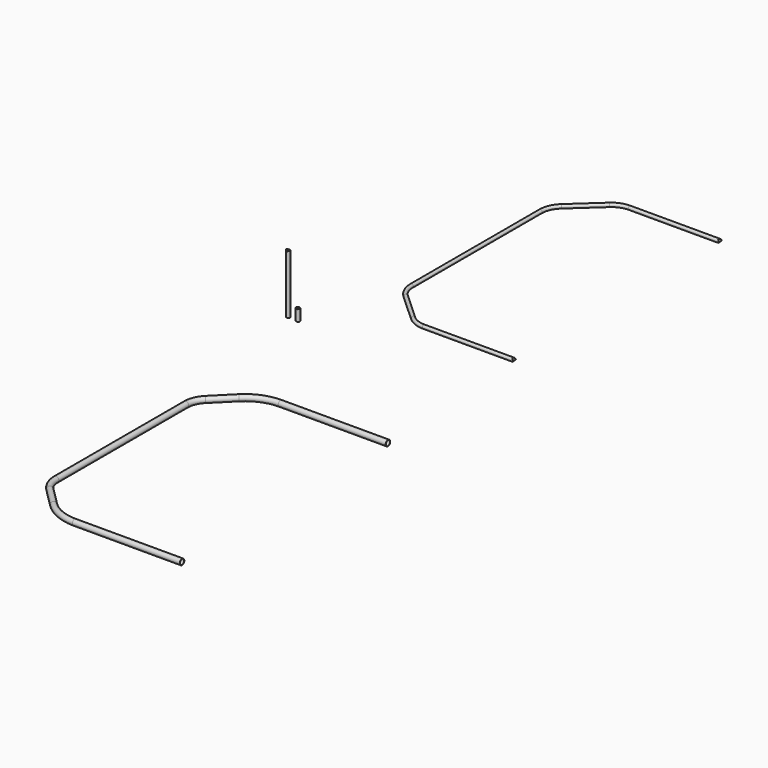
from build123d import *

# Parameters (mm, degrees)
F3_R      = 25.4
F3_R_2    = 23.749
F6_R      = 15.875
F6_R_2    = 14.224
F10_DEPTH = 304.8
F11_R     = 15.875
F11_R_2   = 14.224
F12_DEPTH = 533.4
F11_R_3   = 17.653
F11_R_4   = 16.002
F13_DEPTH = 101.6
F15_DEPTH = 152.4


with BuildPart() as f4:
    # F4: sweep along a path in F0
    with BuildLine(Plane.XY) as f4_path:
        Line((1362.7831224784, -3251.9831279755), (397.5831224784, -3251.9831279755))
        ThreePointArc((397.5831224784, -3251.9831279755), (245.0506116608, -3221.6425251464), (115.7397929045, -3135.2397984016))
        Line((115.7397929045, -3135.2397984016), (-50.9009754587, -2968.5990300384))
        ThreePointArc((-50.9009754587, -2968.5990300384), (-94.9491985279, -2902.6762055578), (-110.4168775216, -2824.9149321013))
        Line((-110.4168775216, -2824.9149321013), (-110.4168775216, -2096.2831279755))
        Line((-110.4168775216, -2096.2831279755), (-110.4168775216, -1367.6513238497))
        ThreePointArc((-110.4168775216, -1367.6513238497), (-94.9491985279, -1289.8900503931), (-50.9009754587, -1223.9672259126))
        Line((-50.9009754587, -1223.9672259126), (115.7397929045, -1057.3264575494))
        ThreePointArc((115.7397929045, -1057.3264575494), (245.0506116608, -970.9237308046), (397.5831224784, -940.5831279755))
        Line((397.5831224784, -940.5831279755), (1362.7831224784, -940.5831279755))
    # F3 (on line) → F4 (sweep)
    with BuildSketch(Plane.YZ.offset(1362.7831224784)):
        with Locations((-3251.9831279755, 0)):
            Circle(F3_R)
        with Locations((-3251.9831279755, 0)):
            Circle(F3_R_2, mode=Mode.SUBTRACT)
    sweep(path=f4_path.line)


with BuildPart() as f7:
    # F7: sweep along a path in F1
    with BuildLine(Plane.XY) as f7_path:
        Line((1270, 596.8999644279), (453.7379801854, 596.8999644279))
        ThreePointArc((453.7379801854, 596.8999644279), (380.1663520681, 610.6865131206), (316.5779801854, 650.1754020641))
        Line((316.5779801854, 650.1754020641), (66.04, 879.3826034753))
        ThreePointArc((66.04, 879.3826034753), (17.2414669879, 947.3946271165), (0, 1029.3071658392))
        Line((0, 1029.3071658392), (0, 1752.5999644279))
        Line((0, 1752.5999644279), (0, 2475.8927630167))
        ThreePointArc((0, 2475.8927630167), (17.2414669879, 2557.8053017394), (66.04, 2625.8173253806))
        Line((66.04, 2625.8173253806), (316.5779801854, 2855.0245267918))
        ThreePointArc((316.5779801854, 2855.0245267918), (380.1663520681, 2894.5134157353), (453.7379801854, 2908.2999644279))
        Line((453.7379801854, 2908.2999644279), (1270, 2908.2999644279))
    # F6 (on line) → F7 (sweep)
    with BuildSketch(Plane.YZ.offset(1270)):
        with Locations((596.8999644279, 0)):
            Circle(F6_R)
        with Locations((596.8999644279, 0)):
            Circle(F6_R_2, mode=Mode.SUBTRACT)
    sweep(path=f7_path.line)

    # F9 (on offset) → F10 (cut)
    with BuildSketch(Plane.XY.offset(152.4)):
        with BuildLine():
            Line((1270, 2892.4249644279), (1270, 2924.1749644279))
            ThreePointArc((1270, 2924.1749644279), (1254.125, 2908.2999644279), (1270, 2892.4249644279))
        make_face()
        with BuildLine():
            ThreePointArc((1270, 612.7749644279), (1254.125, 596.8999644279), (1270, 581.0249644279))
            Line((1270, 581.0249644279), (1270, 612.7749644279))
        make_face()
    extrude(amount=-F10_DEPTH, mode=Mode.SUBTRACT)


with BuildPart() as f12:
    # F11 (on Top) → F12 (new body)
    with BuildSketch(Plane.XY):
        with Locations((-377.416074276, 113.4561449289)):
            Circle(F11_R)
        with Locations((-377.416074276, 113.4561449289)):
            Circle(F11_R_2, mode=Mode.SUBTRACT)
    extrude(amount=F12_DEPTH)


with BuildPart() as f13:
    # F11 (on Top) → F13 (new body)
    with BuildSketch(Plane.XY):
        with Locations((-289.3243432045, 112.8083765507)):
            Circle(F11_R_3)
        with Locations((-289.3243432045, 112.8083765507)):
            Circle(F11_R_4, mode=Mode.SUBTRACT)
    extrude(amount=F13_DEPTH)


with BuildPart() as f15_tool:
    # F14 (on Front) → F15 (new body)
    with BuildSketch(Plane.XZ):
        with BuildLine():
            Line((-361.541074276, 533.4), (-393.291074276, 533.4))
            ThreePointArc((-393.291074276, 533.4), (-377.416074276, 529.1463065702), (-361.541074276, 533.4))
        make_face()
        with BuildLine():
            ThreePointArc((-361.541074276, 0), (-377.416074276, 4.2536934298), (-393.291074276, 0))
            Line((-393.291074276, 0), (-361.541074276, 0))
        make_face()
        with BuildLine():
            ThreePointArc((-271.6713432045, 0), (-289.3243432045, 3.1658568777), (-306.9773432045, 0))
            Line((-306.9773432045, 0), (-271.6713432045, 0))
        make_face()
    extrude(amount=-F15_DEPTH)


with BuildPart() as f12_1:
    add(f12.part)

    # F15: cut by f15_tool
    add(f15_tool.part, mode=Mode.SUBTRACT)


with BuildPart() as f13_1:
    add(f13.part)

    # F15: cut by f15_tool
    add(f15_tool.part, mode=Mode.SUBTRACT)


solid = Compound([f4.part, f7.part, f12_1.part, f13_1.part])
